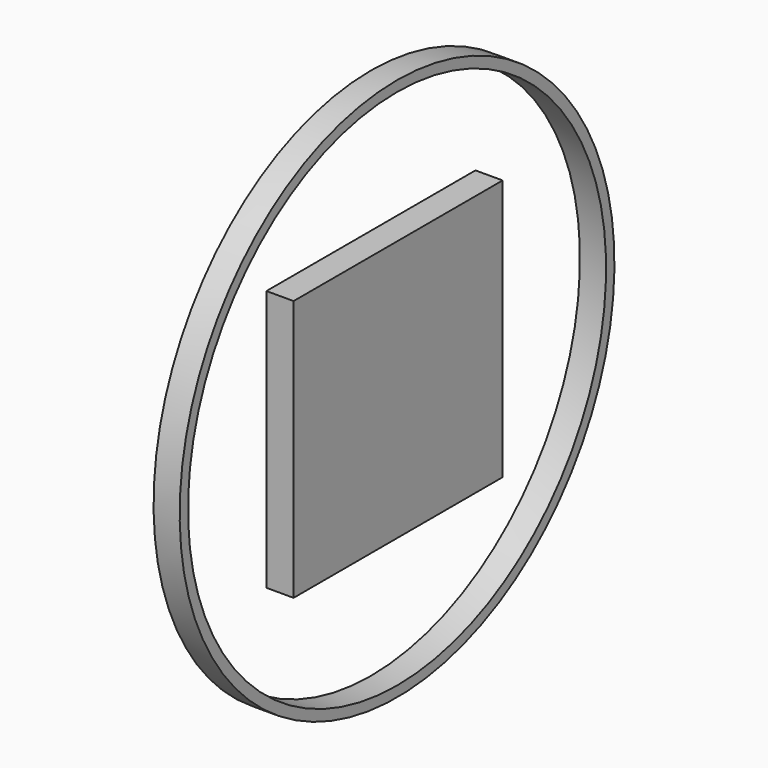
from build123d import *

# Parameters (mm, degrees)
F0_W          = 5
F0_H          = 2
F2_W          = 50.000001
F2_H          = 50
F3_DEPTH      = 0.2
F3_DEPTH_BACK = 5


with BuildPart() as f1:
    # F0 (on Front) → F1 (revolve)
    with BuildSketch(Plane.XZ):
        with Locations((-2.5, 51)):
            Rectangle(F0_W, F0_H)
    revolve(axis=Axis((-39.879699, 0, 0), (-1, 0, 0)))


with BuildPart() as f3:
    # F2 (on Right) → F3 (new body, two sides)
    with BuildSketch(Plane.YZ) as f3_sk:
        with Locations((0, 0)):
            Rectangle(F2_W, F2_H)
    extrude(amount=F3_DEPTH)
    extrude(f3_sk.sketch, amount=-F3_DEPTH_BACK)


solid = Compound([f1.part, f3.part])
